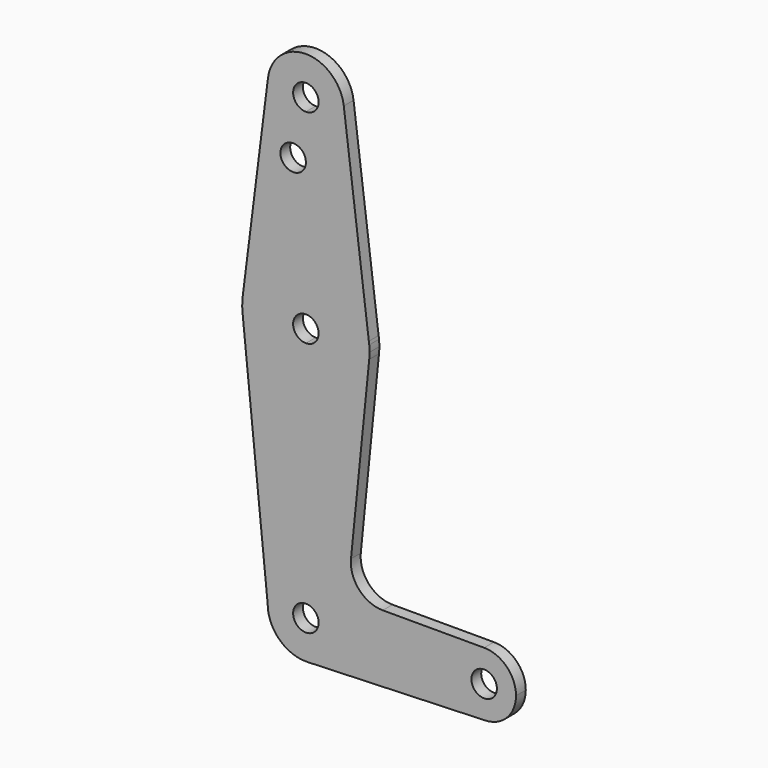
from build123d import *

# Parameters (mm, degrees)
F0_R     = 3.175
F1_DEPTH = 3.048


with BuildPart() as f1:
    # F0 (on Front) → F1 (new body)
    with BuildSketch(Plane.XZ):
        with BuildLine():
            ThreePointArc((0.3401787622, -9.5189234375), (6.8544083519, -6.6138272691), (9.525, 0))
            Line((9.525, 0), (3.175, 0))
            ThreePointArc((3.175, 0), (-2.2450640303, -2.2450640303), (0, 3.175))
            Line((0, 3.175), (0, 9.525))
            ThreePointArc((0, 9.525), (-6.7351920908, 6.7351920908), (-9.525, 0))
            ThreePointArc((-9.525, 0), (-6.6138272691, -6.8544083519), (0.3401787622, -9.5189234375))
        make_face()
        with BuildLine():
            ThreePointArc((0, 9.525), (6.7351920908, 6.7351920908), (9.525, 0))
            Line((9.525, 0), (36.5125, 0))
            ThreePointArc((36.5125, 0), (38.8373399243, 5.6126600757), (44.45, 7.9375))
            Line((44.45, 7.9375), (19.160010759, 7.9375))
            ThreePointArc((19.160010759, 7.9375), (13.2639846378, 10.5545437096), (11.2496616365, 16.68272))
            Line((11.2496616365, 16.68272), (15.7954255641, 61.9125))
            ThreePointArc((15.7954255641, 61.9125), (10.6492737428, 51.7267849017), (0, 47.625))
            Line((0, 47.625), (0, 9.525))
        make_face()
        with BuildLine():
            Line((36.5125, 0), (9.525, 0))
            ThreePointArc((9.525, 0), (6.8544083519, -6.6138272691), (0.3401787622, -9.5189234375))
            Line((0.3401787622, -9.5189234375), (44.7334821429, -7.9324362036))
            ThreePointArc((44.7334821429, -7.9324362036), (38.9384772185, -5.7120069047), (36.5125, 0))
        make_face()
        with BuildLine():
            ThreePointArc((44.45, 7.9375), (38.8373399243, 5.6126600757), (36.5125, 0))
            ThreePointArc((36.5125, 0), (38.9384772185, -5.7120069047), (44.7334821429, -7.9324362036))
            ThreePointArc((44.7334821429, -7.9324362036), (50.1620069047, -5.5115227815), (52.3875, 0))
            ThreePointArc((52.3875, 0), (50.0626600757, 5.6126600757), (44.45, 7.9375))
        make_face()
        with BuildLine():
            ThreePointArc((47.625, 0), (44.45, -3.175), (41.275, 0))
            ThreePointArc((41.275, 0), (44.45, 3.175), (47.625, 0))
        make_face(mode=Mode.SUBTRACT)
        with BuildLine():
            ThreePointArc((-9.525, 0), (-6.7351920908, 6.7351920908), (0, 9.525))
            Line((0, 9.525), (0, 47.625))
            ThreePointArc((0, 47.625), (-10.644756084, 51.722700101), (-15.7942028036, 61.9003804205))
            Line((-15.7942028036, 61.9003804205), (-9.525, 0))
        make_face()
        with BuildLine():
            ThreePointArc((-15.7942028036, 61.9003804205), (-10.644756084, 51.722700101), (0, 47.625))
            Line((0, 47.625), (0, 60.325))
            ThreePointArc((0, 60.325), (-3.175, 63.5), (0, 66.675))
            Line((0, 66.675), (0, 79.375))
            ThreePointArc((0, 79.375), (-10.5003255158, 75.40625), (-15.7504882737, 65.484375))
            ThreePointArc((-15.7504882737, 65.484375), (-15.8738192656, 63.6936154008), (-15.7942028036, 61.9003804205))
        make_face()
        with BuildLine():
            Line((0, 60.325), (0, 47.625))
            ThreePointArc((0, 47.625), (10.6492737428, 51.7267849017), (15.7954255641, 61.9125))
            ThreePointArc((15.7954255641, 61.9125), (15.8550939106, 62.7052534459), (15.875, 63.5))
            ThreePointArc((15.875, 63.5), (15.8550939106, 64.2947465541), (15.7954255641, 65.0875))
            Line((15.7954255641, 65.0875), (15.6960512127, 65.8768890024))
            ThreePointArc((15.6960512127, 65.8768890024), (10.3509060494, 75.5363769032), (0, 79.375))
            Line((0, 79.375), (0, 66.675))
            ThreePointArc((0, 66.675), (2.2450640303, 65.7450640303), (3.175, 63.5))
            ThreePointArc((3.175, 63.5), (2.2450640303, 61.2549359697), (0, 60.325))
        make_face()
        with BuildLine():
            Line((-9.4502929642, 115.490625), (-15.7504882737, 65.484375))
            ThreePointArc((-15.7504882737, 65.484375), (-10.5003255158, 75.40625), (0, 79.375))
            Line((0, 79.375), (0, 100.0252))
            Line((0, 100.0252), (0, 104.775))
            ThreePointArc((0, 104.775), (-7.14375, 107.9998046905), (-9.4502929642, 115.490625))
        make_face()
        with Locations((-3.175, 100.0252)):
            Circle(F0_R, mode=Mode.SUBTRACT)
        with BuildLine():
            Line((0, 100.0252), (0, 79.375))
            ThreePointArc((0, 79.375), (10.3509060494, 75.5363769032), (15.6960512127, 65.8768890024))
            Line((15.6960512127, 65.8768890024), (9.4504106795, 115.4896902908))
            ThreePointArc((9.4504106795, 115.4896902908), (9.5063343809, 114.8960131196), (9.525, 114.3))
            ThreePointArc((9.525, 114.3), (6.7351920908, 107.5648079092), (0, 104.775))
            Line((0, 104.775), (0, 100.0252))
        make_face()
        with BuildLine():
            ThreePointArc((9.4504106795, 115.4896902908), (0.0004710462, 123.8249999884), (-9.4502929642, 115.490625))
            ThreePointArc((-9.4502929642, 115.490625), (-7.14375, 107.9998046905), (0, 104.775))
            ThreePointArc((0, 104.775), (6.7351920908, 107.5648079092), (9.525, 114.3))
            ThreePointArc((9.525, 114.3), (9.5063343809, 114.8960131196), (9.4504106795, 115.4896902908))
        make_face()
        with BuildLine():
            ThreePointArc((3.175, 114.3), (2.2450640303, 112.0549359697), (0, 111.125))
            ThreePointArc((0, 111.125), (-2.2450640303, 116.5450640303), (3.175, 114.3))
        make_face(mode=Mode.SUBTRACT)
        with BuildLine():
            Line((15.6960512127, 65.8768890024), (15.7954255641, 65.0875))
            ThreePointArc((15.7954255641, 65.0875), (15.7506844659, 65.4828171514), (15.6960512127, 65.8768890024))
        make_face()
        with BuildLine():
            Line((3.175, 0), (9.525, 0))
            ThreePointArc((9.525, 0), (6.7351920908, 6.7351920908), (0, 9.525))
            Line((0, 9.525), (0, 3.175))
            ThreePointArc((0, 3.175), (2.2450640303, 2.2450640303), (3.175, 0))
        make_face()
    extrude(amount=F1_DEPTH)


solid = f1.part
